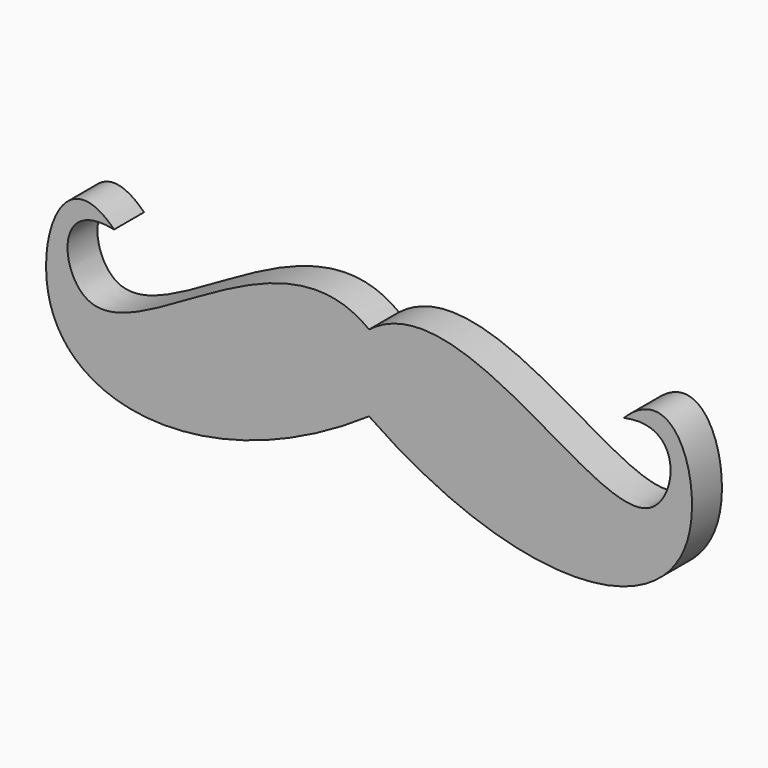
from build123d import *

# Parameters (mm, degrees)
F1_DEPTH = 1.1


with BuildPart() as f1:
    # F0 (on Front) → F1 (new body)
    with BuildSketch(Plane.XZ):
        with BuildLine():
            add(Edge.make_bspline(
                [(-1.9470010448, -1.081569055), (-6.4709262496, -4.1822086811), (-13.1380772683, -3.5908857996), (-10.9236792472, 2.7951091474), (-9.4470010448, 1.318430945)],
                knots=[0, 0, 0, 0, 0.6365323696, 1, 1, 1, 1], degree=3))
            add(Edge.make_bspline(
                [(-1.9470010448, -1.081569055), (2.5769241601, -4.1822086811), (9.2440751787, -3.5908857996), (7.0296771577, 2.7951091474), (5.5529989552, 1.318430945)],
                knots=[0, 0, 0, 0, 0.6365323696, 1, 1, 1, 1], degree=3))
            add(Edge.make_bspline(
                [(5.5529989552, 1.318430945), (7.3165176765, 1.6937988867), (6.8348292057, -4.1486880253), (0.7257099681, 3.2356573325), (-1.9470010448, 1.168430945)],
                knots=[0, 0, 0, 0, 0.3353035787, 0.9783824987, 0.9783824987, 0.9783824987, 0.9783824987], degree=3))
            add(Edge.make_bspline(
                [(-9.4470010448, 1.318430945), (-11.2105197661, 1.6937988867), (-10.7288312952, -4.1486880253), (-4.6197120576, 3.2356573325), (-1.9470010448, 1.168430945)],
                knots=[0, 0, 0, 0, 0.3353035787, 0.9783824987, 0.9783824987, 0.9783824987, 0.9783824987], degree=3))
        make_face()
    extrude(amount=F1_DEPTH)


solid = f1.part
